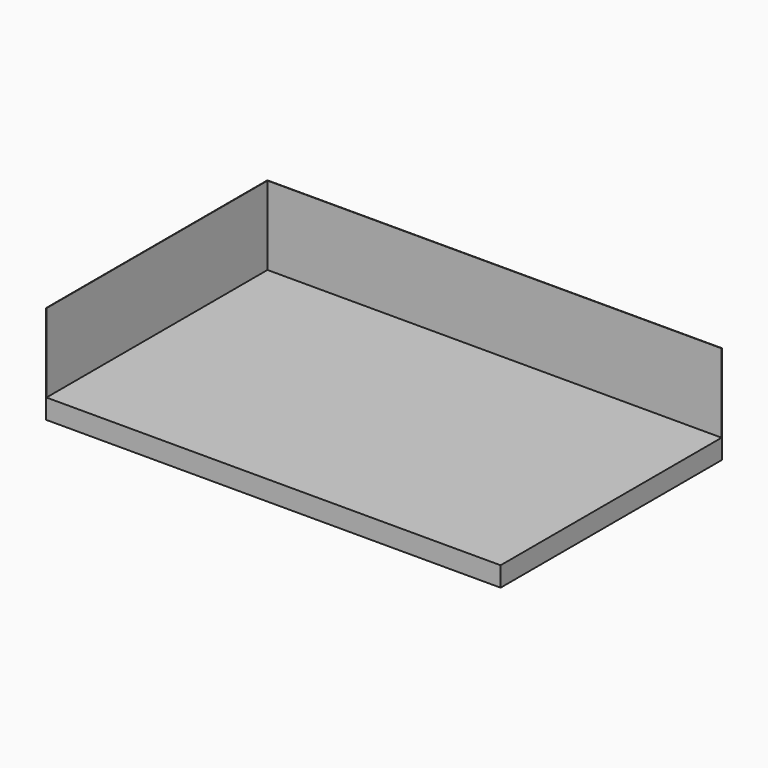
from build123d import *

# Parameters (mm, degrees)
F1_DEPTH = 1150
F2_W     = 1
F2_H     = 49
F3_DEPTH = 699
F4_W     = 1
F4_H     = 199
F5_DEPTH = 699


with BuildPart() as f1:
    # F0 (on Right) → F1 (new body)
    with BuildSketch(Plane.YZ):
        Polygon((699, 0), (0, 0), (0, -50), (1, -50), (1, -1), (700, -1), (700, 199), (699, 199), align=None)
    extrude(amount=-F1_DEPTH)

    # F2 (on face) → F3 (join, through all)
    with BuildSketch(Plane(origin=(0, 1, 0), x_dir=(-1, 0, 0), z_dir=(0, 1, 0))):
        with Locations((0.5, -25.5)):
            Rectangle(F2_W, F2_H)
    extrude(amount=F3_DEPTH)

    # F4 (on face) → F5 (join)
    with BuildSketch(Plane.XZ.offset(-699)):
        with Locations((-1149.5, 99.5)):
            Rectangle(F4_W, F4_H)
    extrude(amount=F5_DEPTH)


solid = f1.part
